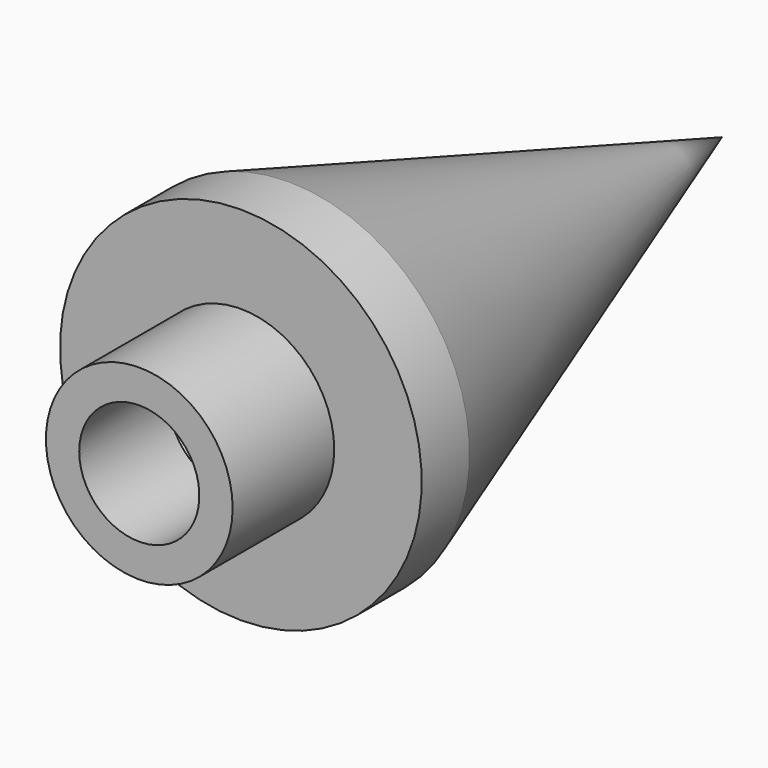
from build123d import *

# Parameters (mm, degrees)
F0_R     = 3.96875
F1_DEPTH = 7.9375
F3_D     = 5.1054
F3_DEPTH = 4.7625
F3_TIP   = 1.5338169022
F6_DEPTH = 2.54


with BuildPart() as f1:
    # F0 (on Front) → F1 (new body)
    with BuildSketch(Plane.XZ):
        Circle(F0_R)
    extrude(amount=F1_DEPTH)

    # F3
    with Locations(Plane.XZ.offset(7.9375)):
        with Locations((0, 0)):
            Hole(F3_D / 2, depth=F3_DEPTH)
            with Locations((0, 0, -(F3_DEPTH + F3_TIP / 2))):  # 118° drill point
                Cone(0, F3_D / 2, F3_TIP, mode=Mode.SUBTRACT)

    # F4 (on Right) → F5 (revolve)
    with BuildSketch(Plane.YZ):
        Polygon((0, 7.68720332), (0, 0), (23.01875, 0), align=None)
    revolve(axis=Axis((0, 11.509375, 0), (0, -1, 0)))

    # F6 (add): a face of the model
    f6_faces = [f1.faces().sort_by_distance(p)[0] for p in [
        (0, 0, -7.4697763762),
    ]]
    extrude(f6_faces, amount=F6_DEPTH)


solid = f1.part
